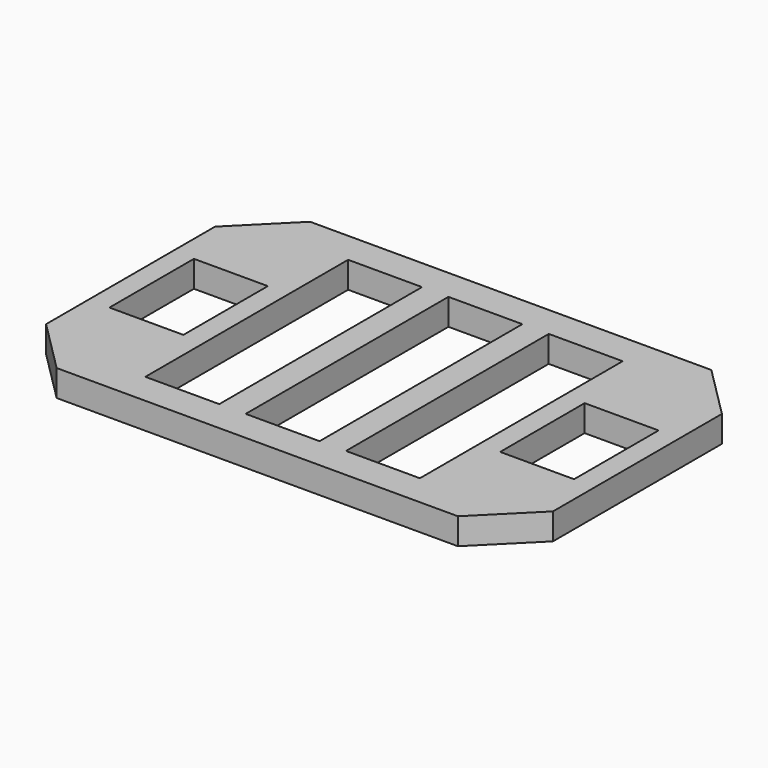
from build123d import *

# Parameters (mm, degrees)
F0_W     = 7
F0_H     = 24
F0_W_2   = 48
F0_H_2   = 30
F0_H_3   = 10
F1_DEPTH = 2.5
F2_DEPTH = 2.5
F3_SIZE2 = 5
F3_SIZE  = 5


with BuildPart() as f1:
    # F0 (on Top) → F1 (new body)
    with BuildSketch(Plane.XY):
        with Locations((9.5, 0)):
            Rectangle(F0_W, F0_H)
        Rectangle(F0_W_2, F0_H_2)
        with Locations((-18.5, 0)):
            Rectangle(F0_W, F0_H_3, mode=Mode.SUBTRACT)
        with Locations((-9.5, 0)):
            Rectangle(F0_W, F0_H, mode=Mode.SUBTRACT)
        Rectangle(F0_W, F0_H, mode=Mode.SUBTRACT)
        with Locations((9.5, 0)):
            Rectangle(F0_W, F0_H, mode=Mode.SUBTRACT)
        with Locations((18.5, 0)):
            Rectangle(F0_W, F0_H_3, mode=Mode.SUBTRACT)
        with Locations((-18.5, 0)):
            Rectangle(F0_W, F0_H_3)
        with Locations((-9.5, 0)):
            Rectangle(F0_W, F0_H)
        Rectangle(F0_W, F0_H)
        with Locations((18.5, 0)):
            Rectangle(F0_W, F0_H_3)
    extrude(amount=F1_DEPTH)

    # F0 (on Top) → F2 (cut)
    with BuildSketch(Plane.XY):
        with Locations((-18.5, 0)):
            Rectangle(F0_W, F0_H_3)
        with Locations((18.5, 0)):
            Rectangle(F0_W, F0_H_3)
        with Locations((-9.5, 0)):
            Rectangle(F0_W, F0_H)
        Rectangle(F0_W, F0_H)
        with Locations((9.5, 0)):
            Rectangle(F0_W, F0_H)
    extrude(amount=F2_DEPTH, mode=Mode.SUBTRACT)

    # F3
    f3_edges = [f1.edges().sort_by_distance(p)[0] for p in [
        (24, -15, 1.25),
        (24, 15, 1.25),
        (-24, 15, 1.25),
        (-24, -15, 1.25),
    ]]
    chamfer(f3_edges, length=F3_SIZE, length2=F3_SIZE2)


solid = f1.part
